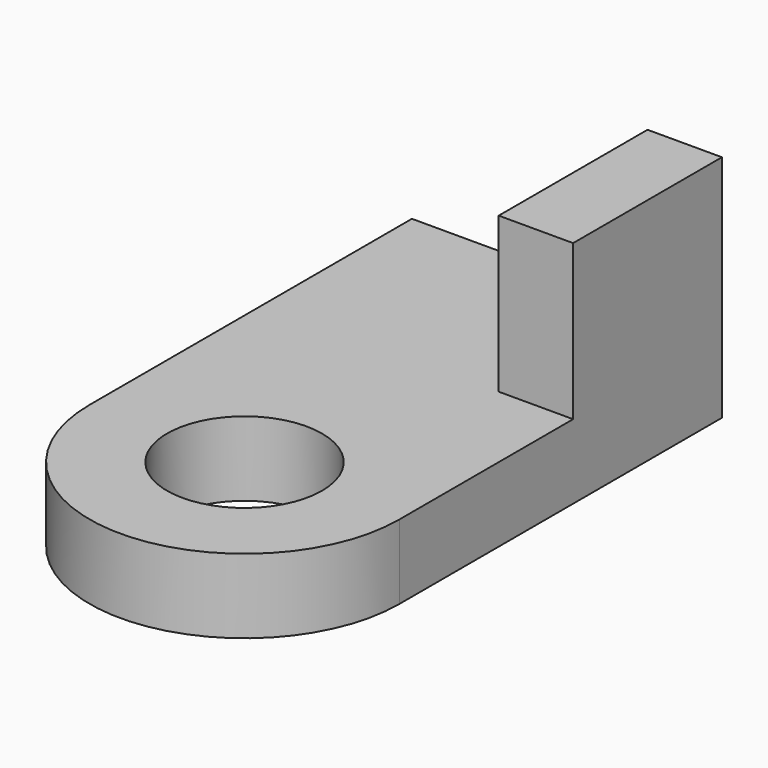
from build123d import *

# Parameters (mm, degrees)
F0_W     = 1270
F0_H     = 1651
F1_DEPTH = 304.8
F2_W     = 304.8
F2_H     = 762
F3_DEPTH = 635
F5_DEPTH = 304.8
F6_R     = 317.5
F7_DEPTH = 304.8


with BuildPart() as f1:
    # F0 (on Top) → F1 (new body)
    with BuildSketch(Plane.XY):
        with Locations((601.1569073796, 821.8028554339)):
            Rectangle(F0_W, F0_H)
    extrude(amount=F1_DEPTH)

    # F2 (on face) → F3 (join)
    with BuildSketch(Plane.XY.offset(304.8)):
        with Locations((1083.7569073796, 1266.3028554339)):
            Rectangle(F2_W, F2_H)
    extrude(amount=F3_DEPTH)

    # F4 (on face) → F5 (join)
    with BuildSketch(Plane.XY.offset(304.8)):
        with BuildLine():
            ThreePointArc((-33.8430926204, -3.6971445661), (601.1569073796, -638.6971445661), (1236.1569073796, -3.6971445661))
            Line((1236.1569073796, -3.6971445661), (-33.8430926204, -3.6971445661))
        make_face()
    extrude(amount=-F5_DEPTH)

    # F6 (on face) → F7 (cut)
    with BuildSketch(Plane.XY.offset(304.8)):
        with Locations((601.1569073796, -3.6971445661)):
            Circle(F6_R)
    extrude(amount=-F7_DEPTH, mode=Mode.SUBTRACT)


solid = f1.part
